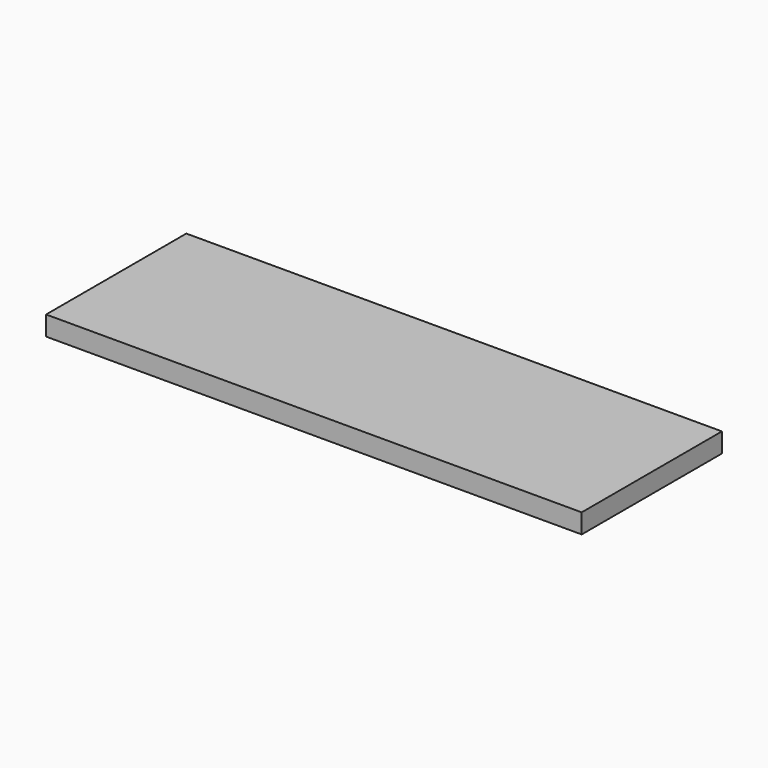
from build123d import *

# Parameters (mm, degrees)
F0_W     = 55
F0_H     = 18
F1_DEPTH = 2
F2_W     = 55
F2_H     = 18
F3_DEPTH = 2


with BuildPart() as f1:
    # F0 (on Top) → F1 (new body)
    with BuildSketch(Plane.XY):
        Rectangle(F0_W, F0_H)
    extrude(amount=F1_DEPTH)

    # F2 (on Top) → F3 (join)
    with BuildSketch(Plane.XY):
        Rectangle(F2_W, F2_H)
    extrude(amount=F3_DEPTH)


solid = f1.part
